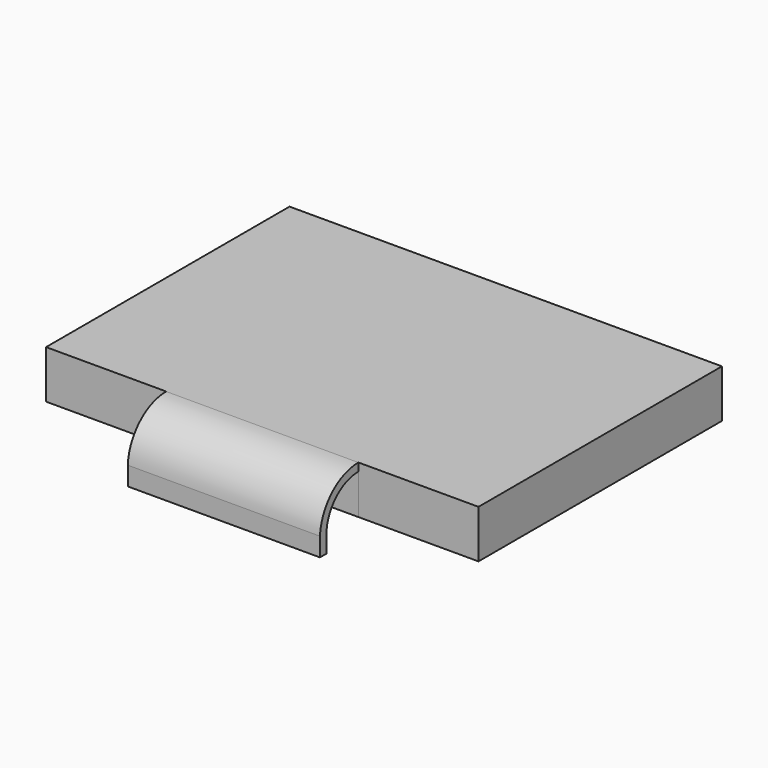
from build123d import *

# Parameters (mm, degrees)
PAD_DEPTH       = 4
SKETCH001_W     = 27
SKETCH001_H     = 19
POCKET_DEPTH    = 1
POCKET001_DEPTH = 27
POCKET002_DEPTH = 27


with BuildPart() as part:
    # Sketch → Pad (new body)
    with BuildSketch(Plane.XY):
        Polygon((-13.5, 9.5), (13.5, 9.5), (13.5, -9.5), (6, -9.5), (6, -12.5), (-6, -12.5), (-6, -9.5), (-13.5, -9.5), align=None)
    extrude(amount=PAD_DEPTH)

    # Sketch001 (on Face9 of Pad) → Pocket (cut)
    with BuildSketch(Plane(origin=(0, 0, 0), x_dir=(1, 0, 0), z_dir=(0, 0, -1))):
        Rectangle(SKETCH001_W, SKETCH001_H)
    extrude(amount=-POCKET_DEPTH, mode=Mode.SUBTRACT)

    # Sketch002 (on Face11 of Pocket) → Pocket001 (cut)
    with BuildSketch(Plane(origin=(-13.5, 0, 0), x_dir=(0, -1, 0), z_dir=(-1, 0, 0))):
        with BuildLine():
            ThreePointArc((12.504744, 1), (11.626065, 3.12132), (9.504744, 4))
            Line((9.504744, 4), (9.504744, 5.572417))
            Line((9.504744, 5.572417), (13.03316, 5.572417))
            Line((13.03316, 5.572417), (13.03316, 1))
            Line((13.03316, 1), (12.504744, 1))
        make_face()
    extrude(amount=-POCKET001_DEPTH, mode=Mode.SUBTRACT)

    # Sketch003 (on Face11 of Pocket001) → Pocket002 (cut)
    with BuildSketch(Plane(origin=(-13.5, 0, 0), x_dir=(0, -1, 0), z_dir=(-1, 0, 0))):
        with BuildLine():
            ThreePointArc((12.001523, 1), (11.26929, 2.767767), (9.501523, 3.5))
            Line((9.501523, 3.5), (9.501523, 1))
            Line((9.501523, 1), (9.324189, 1))
            Line((9.324189, 1), (9.324189, -0.269266))
            Line((9.324189, -0.269266), (10.161053, -0.269266))
            Line((10.161053, -0.269266), (12.001523, -0.269266))
            Line((12.001523, -0.269266), (12.001523, 1))
        make_face()
    extrude(amount=-POCKET002_DEPTH, mode=Mode.SUBTRACT)


solid = part.part
